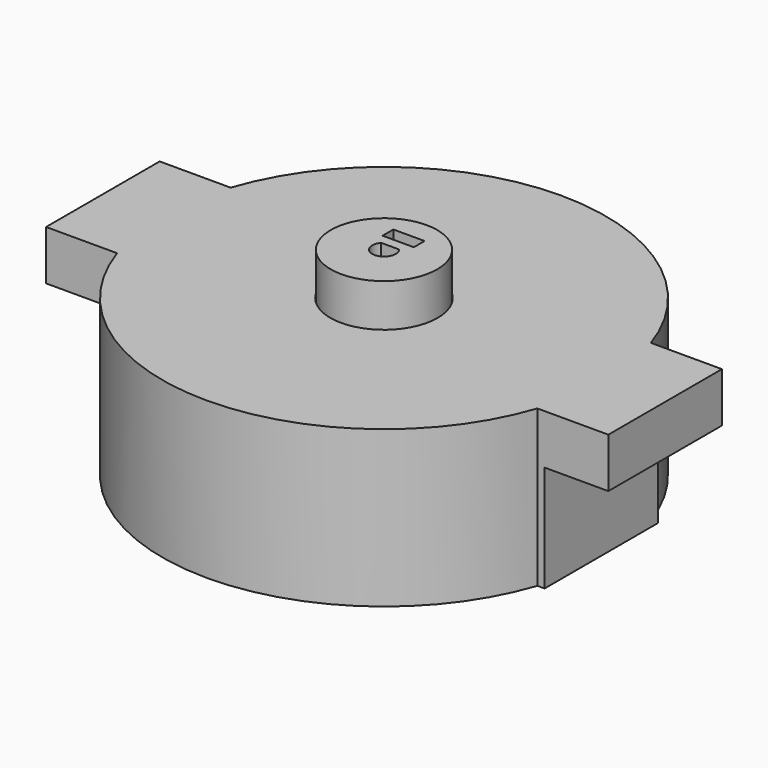
from build123d import *

# Parameters (mm, degrees)
SKETCH_R           = 31.75
PAD_DEPTH          = 25.4
POCKET_DEPTH       = 212.052118
POLARPATTERN_COUNT = 12
SKETCH002_R        = 9.525
PAD001_DEPTH       = 10.16
SKETCH003_R        = 1.7399
POCKET001_DEPTH    = 11.43
SKETCH004_W        = 5.588
SKETCH004_H        = 2.413
POCKET002_DEPTH    = 9.525
SKETCH008_R        = 4.706723
PAD003_DEPTH       = 5.08
PAD002_DEPTH       = 27.94
SKETCH006_R        = 36.195
POCKET003_DEPTH    = 25.4
SKETCH007_R        = 9.6139
POCKET004_DEPTH    = 2.541
SKETCH009_W        = 17.890586
SKETCH009_H        = 29.736821
SKETCH009_W_2      = 18.984901
SKETCH009_H_2      = 31.323331
POCKET005_DEPTH    = 19.05
CYLINDER_R         = 38.1
CYLINDER_DEPTH     = 25.4


with BuildPart() as wheel:
    # Sketch → Pad (new body)
    with BuildSketch(Plane.XY):
        Circle(SKETCH_R)
        with BuildLine():
            ThreePointArc((-1.5875, 1.367832), (0, -2.0955), (1.5875, 1.367832))
            Line((-1.5875, 1.367832), (1.5875, 1.367832))
        make_face(mode=Mode.SUBTRACT)
    extrude(amount=PAD_DEPTH)

    # Sketch001 (on Face5 of Pad) → Pocket (cut, through all)
    with BuildSketch(Plane.XY.offset(25.4)):
        Polygon((2.035944, 32.858185), (2.035944, 28.512662), (5.128695, 27.767962), (3.335729, 25.622284), (0, 24.167919), (-3.335729, 25.622284), (-5.128695, 27.767962), (-2.035944, 28.512662), (-2.035944, 32.858185), align=None)
    pocket = extrude(amount=-POCKET_DEPTH, mode=Mode.SUBTRACT)

    # PolarPattern: Pocket ×12 about axis
    polarpattern_axis = Axis((0, 0, 25.4), (0, 0, 1))
    for i in range(1, POLARPATTERN_COUNT):
        add(pocket.rotate(polarpattern_axis, i * 360 / POLARPATTERN_COUNT), mode=Mode.SUBTRACT)

    # Sketch002 (on Face4 of PolarPattern) → Pad001 (join)
    with BuildSketch(Plane.XY.offset(25.4)):
        Circle(SKETCH002_R)
        with BuildLine():
            Line((-1.5875, 1.367832), (1.5875, 1.367832))
            ThreePointArc((-1.5875, 1.367832), (0, -2.0955), (1.5875, 1.367832))
        make_face(mode=Mode.SUBTRACT)
    extrude(amount=PAD001_DEPTH)

    # Sketch003 (on DatumPlane) → Pocket001 (cut)
    with BuildSketch(Plane.XZ.offset(-1.367832)):
        with Locations((0, 30.1625)):
            Circle(SKETCH003_R)
    extrude(amount=-POCKET001_DEPTH, mode=Mode.SUBTRACT)

    # Sketch004 (on Face116 of Pocket001) → Pocket002 (cut)
    with BuildSketch(Plane.XY.offset(35.56)):
        with Locations((0, 4.3815)):
            Rectangle(SKETCH004_W, SKETCH004_H)
    extrude(amount=-POCKET002_DEPTH, mode=Mode.SUBTRACT)

    # Sketch008 (on Face2 of Pocket002) → Pad003 (join)
    with BuildSketch(Plane(origin=(0, 0, 0), x_dir=(1, 0, 0), z_dir=(0, 0, -1))):
        Circle(SKETCH008_R)
    extrude(amount=-PAD003_DEPTH)


with BuildPart() as mold:
    # Sketch005 → Pad002 (new body)
    with BuildSketch(Plane.XY):
        with BuildLine():
            ThreePointArc((-37.600634, -12.7), (0, -39.6875), (37.600634, -12.7))
            Line((50.300634, -12.7), (37.600634, -12.7))
            Line((50.300634, 12.7), (50.300634, -12.7))
            Line((37.600634, 12.7), (50.300634, 12.7))
            ThreePointArc((37.600634, 12.7), (0, 39.6875), (-37.600634, 12.7))
            Line((-37.600634, 12.7), (-50.300634, 12.7))
            Line((-50.300634, 12.7), (-50.300634, -12.7))
            Line((-50.300634, -12.7), (-37.600634, -12.7))
        make_face()
    extrude(amount=PAD002_DEPTH)

    # Sketch006 (on Face9 of Pad002) → Pocket003 (cut)
    with BuildSketch(Plane(origin=(0, 0, 0), x_dir=(1, 0, 0), z_dir=(0, 0, -1))):
        Circle(SKETCH006_R)
    extrude(amount=-POCKET003_DEPTH, mode=Mode.SUBTRACT)

    # Sketch007 (on Face12 of Pocket003) → Pocket004 (cut, through all)
    with BuildSketch(Plane(origin=(0, 0, 25.4), x_dir=(1, 0, 0), z_dir=(0, 0, -1))):
        Circle(SKETCH007_R)
    extrude(amount=-POCKET004_DEPTH, mode=Mode.SUBTRACT)

    # Sketch009 (on Face4 of Pocket004) → Pocket005 (cut)
    with BuildSketch(Plane(origin=(0, 0, 0), x_dir=(1, 0, 0), z_dir=(0, 0, -1))):
        with Locations((47.839043, -0.179476)):
            Rectangle(SKETCH009_W, SKETCH009_H)
        with Locations((-48.386201, -0.972732)):
            Rectangle(SKETCH009_W_2, SKETCH009_H_2)
    extrude(amount=-POCKET005_DEPTH, mode=Mode.SUBTRACT)


with BuildPart() as wheel001:
    # Clone base: copy of wheel
    add(wheel.part)


with BuildPart() as fusion:
    # Clone001 base: copy of mold
    add(mold.part)

    # Fusion: union wheel001
    add(wheel001.part)


with BuildPart() as cut:
    # Cylinder → Cylinder (new body)
    with BuildSketch(Plane.XY):
        Circle(CYLINDER_R)
    extrude(amount=CYLINDER_DEPTH)

    # Cut: cut Fusion
    add(fusion.part, mode=Mode.SUBTRACT)


solid = Compound([wheel.part, mold.part, cut.part])
